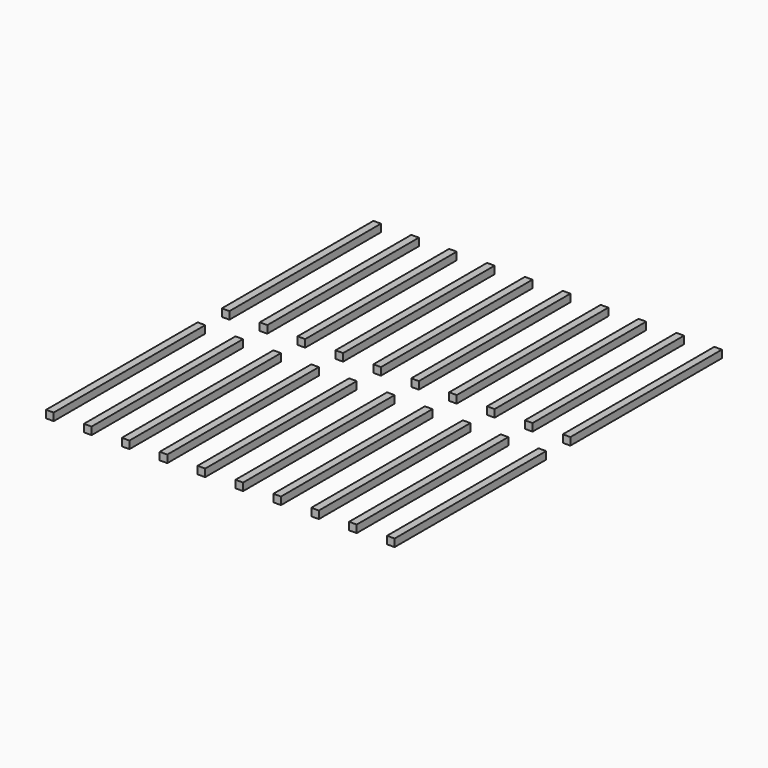
from build123d import *

# Parameters (mm, degrees)
F0_W     = 1.016
F0_H     = 25.4
F1_DEPTH = 1.016


with BuildPart() as f1:
    # F0 (on Top) → F1 (new body)
    with BuildSketch(Plane.XY):
        with Locations((0.508, 12.7)):
            Rectangle(F0_W, F0_H)
        with Locations((5.588, 12.7)):
            Rectangle(F0_W, F0_H)
        with Locations((10.668, 12.7)):
            Rectangle(F0_W, F0_H)
        with Locations((15.748, 12.7)):
            Rectangle(F0_W, F0_H)
        with Locations((20.828, 12.7)):
            Rectangle(F0_W, F0_H)
        with Locations((25.908, 12.7)):
            Rectangle(F0_W, F0_H)
        with Locations((30.988, 12.7)):
            Rectangle(F0_W, F0_H)
        with Locations((36.068, 12.7)):
            Rectangle(F0_W, F0_H)
        with Locations((41.148, 12.7)):
            Rectangle(F0_W, F0_H)
        with Locations((46.228, 12.7)):
            Rectangle(F0_W, F0_H)
        with Locations((0.508, 42.164)):
            Rectangle(F0_W, F0_H)
        with Locations((10.668, 42.164)):
            Rectangle(F0_W, F0_H)
        with Locations((25.908, 42.164)):
            Rectangle(F0_W, F0_H)
        with Locations((41.148, 42.164)):
            Rectangle(F0_W, F0_H)
        with Locations((36.068, 42.164)):
            Rectangle(F0_W, F0_H)
        with Locations((46.228, 42.164)):
            Rectangle(F0_W, F0_H)
        with Locations((15.748, 42.164)):
            Rectangle(F0_W, F0_H)
        with Locations((30.988, 42.164)):
            Rectangle(F0_W, F0_H)
        with Locations((20.828, 42.164)):
            Rectangle(F0_W, F0_H)
        with Locations((5.588, 42.164)):
            Rectangle(F0_W, F0_H)
    extrude(amount=F1_DEPTH)


solid = f1.part
